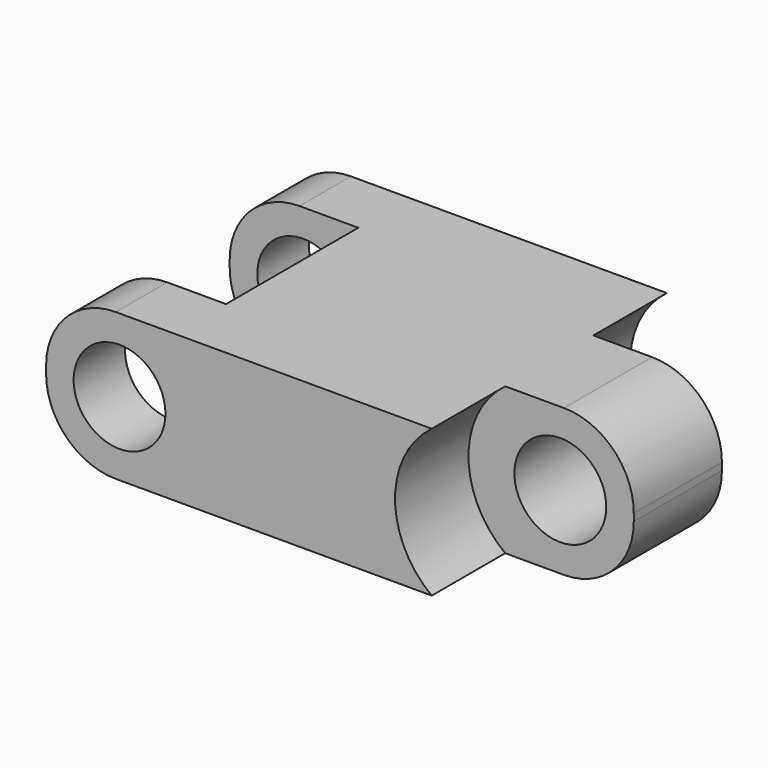
from build123d import *

# Parameters (mm, degrees)
CYLINDER001_R          = 2.5
CYLINDER001_DEPTH      = 2.5
CYLINDER001_ROLL_ANGLE = 90
CYLINDER002_R          = 2.5
CYLINDER002_DEPTH      = 2.5
CYLINDER002_ROLL_ANGLE = 90
CYLINDER_R             = 2.5
CYLINDER_DEPTH         = 4.5
CYLINDER_ROLL_ANGLE    = 90
SKETCH_R               = 1.25
PAD_DEPTH              = 4


with BuildPart() as cylinder001:
    # Cylinder001 → Cylinder001 (new body)
    with BuildSketch(Plane.XY):
        Circle(CYLINDER001_R)
    extrude(amount=CYLINDER001_DEPTH)


with BuildPart() as cylinder001_1:
    # Cylinder001 roll: moved
    add(cylinder001.part.rotate(Axis((0, 0, 0), (1, 0, 0)), CYLINDER001_ROLL_ANGLE))


with BuildPart() as cylinder001_2:
    # Cylinder001 placement: moved
    add(cylinder001_1.part.moved(Location((5, 4, 0))))


with BuildPart() as cylinder002:
    # Cylinder002 → Cylinder002 (new body)
    with BuildSketch(Plane.XY):
        Circle(CYLINDER002_R)
    extrude(amount=CYLINDER002_DEPTH)


with BuildPart() as cylinder002_1:
    # Cylinder002 roll: moved
    add(cylinder002.part.rotate(Axis((0, 0, 0), (1, 0, 0)), CYLINDER002_ROLL_ANGLE))


with BuildPart() as cylinder002_2:
    # Cylinder002 placement: moved
    add(cylinder002_1.part.moved(Location((5, -1.5, 0))))


with BuildPart() as axes_cutout:
    # Cylinder → Cylinder (new body)
    with BuildSketch(Plane.XY):
        Circle(CYLINDER_R)
    extrude(amount=CYLINDER_DEPTH)


with BuildPart() as axes_cutout_1:
    # Cylinder roll: moved
    add(axes_cutout.part.rotate(Axis((0, 0, 0), (1, 0, 0)), CYLINDER_ROLL_ANGLE))


with BuildPart() as axes_cutout_2:
    # Cylinder placement: moved
    add(axes_cutout_1.part.moved(Location((-5, 2.25, 0))))

    # Fusion: union Cylinder001, Cylinder002
    add(cylinder001_2.part)
    add(cylinder002_2.part)


with BuildPart() as track_shape:
    # Sketch → Pad (new body, symmetric)
    with BuildSketch(Plane.XZ):
        with BuildLine():
            Line((-5.1, 2), (5.1, 2))
            ThreePointArc((7, 0.1), (6.443503, 1.443503), (5.1, 2))
            Line((7, 0.1), (7, -0.1))
            ThreePointArc((5.1, -2), (6.443503, -1.443503), (7, -0.1))
            Line((5.1, -2), (-5.1, -2))
            ThreePointArc((-7, -0.1), (-6.443503, -1.443503), (-5.1, -2))
            Line((-7, -0.1), (-7, 0.1))
            ThreePointArc((-5.1, 2), (-6.443503, 1.443503), (-7, 0.1))
        make_face()
        with Locations((-5, 0)):
            Circle(SKETCH_R, mode=Mode.SUBTRACT)
        with Locations((5, 0)):
            Circle(SKETCH_R, mode=Mode.SUBTRACT)
    extrude(amount=PAD_DEPTH, both=True)

    # Cut: cut axes-cutout
    add(axes_cutout_2.part, mode=Mode.SUBTRACT)


solid = track_shape.part
